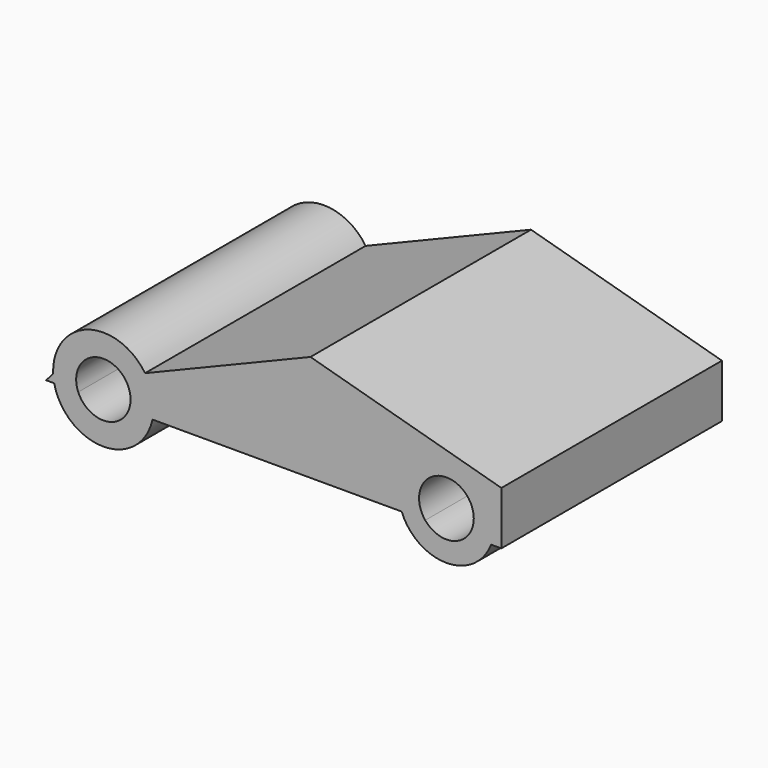
from build123d import *

# Parameters (mm, degrees)
F1_DEPTH = 43.18
F2_DEPTH = 43.18


with BuildPart() as f1:
    # F0 (on Front) → F1 (new body)
    with BuildSketch(Plane.XZ):
        with BuildLine():
            Line((-70.0807423792, -9.385842626), (-72.3080188036, -11.8701132014))
            Line((-72.3080188036, -11.8701132014), (-69.75809754, -11.8701132014))
            ThreePointArc((-69.75809754, -11.8701132014), (-69.9689441055, -10.6344098661), (-70.0807423792, -9.385842626))
        make_face()
        with BuildLine():
            ThreePointArc((-70.0807423792, -9.385842626), (-69.9689441055, -10.6344098661), (-69.75809754, -11.8701132014))
            Line((-69.75809754, -11.8701132014), (-62.2371057887, -11.8701132014))
            ThreePointArc((-62.2371057887, -11.8701132014), (-62.3787839374, -5.7114418757), (-58.3313936433, -1.0673125706))
            Line((-58.3313936433, -1.0673125706), (-62.8844201565, -1.3591732131))
            Line((-62.8844201565, -1.3591732131), (-70.0807423792, -9.385842626))
        make_face()
        with BuildLine():
            Line((-62.2371057887, -11.8701132014), (-69.75809754, -11.8701132014))
            ThreePointArc((-69.75809754, -11.8701132014), (-54.3669313192, -24.3411435131), (-38.9757650985, -11.8701132014))
            Line((-38.9757650985, -11.8701132014), (-46.4967568498, -11.8701132014))
            ThreePointArc((-46.4967568498, -11.8701132014), (-54.3669313192, -17.1275100133), (-62.2371057887, -11.8701132014))
        make_face()
        with BuildLine():
            ThreePointArc((-41.301230943, 0.1563890629), (-59.3183623194, 6.3254916753), (-70.0807423792, -9.385842626))
            Line((-70.0807423792, -9.385842626), (-62.8844201565, -1.3591732131))
            Line((-62.8844201565, -1.3591732131), (-58.3313936433, -1.0673125706))
            ThreePointArc((-58.3313936433, -1.0673125706), (-54.9119288787, -0.1061343687), (-51.3977275424, -0.6228468428))
            Line((-51.3977275424, -0.6228468428), (-41.6813157499, 0))
            Line((-41.6813157499, 0), (-41.301230943, 0.1563890629))
        make_face()
        with BuildLine():
            ThreePointArc((-38.6338850166, -8.6080972105), (-38.7195884656, -10.2480385445), (-38.9757650985, -11.8701132014))
            Line((-38.9757650985, -11.8701132014), (39.0784468264, -11.8701132014))
            ThreePointArc((39.0784468264, -11.8701132014), (50.3328504817, 8.347234678), (68.1355186493, -6.4334203489))
            ThreePointArc((68.1355186493, -6.4334203489), (67.8790244167, -9.198939257), (67.1182919531, -11.8701132014))
            Line((67.1182919531, -11.8701132014), (70.3145563602, -11.8701132014))
            Line((70.3145563602, -11.8701132014), (70.3145563602, 4.8024123535))
            Line((70.3145563602, 4.8024123535), (10.5109401047, 21.4749388397))
            Line((10.5109401047, 21.4749388397), (-41.301230943, 0.1563890629))
            ThreePointArc((-41.301230943, 0.1563890629), (-39.3154859575, -4.0274052888), (-38.6338850166, -8.6080972105))
        make_face()
        with BuildLine():
            Line((-46.4967568498, -11.8701132014), (-38.9757650985, -11.8701132014))
            ThreePointArc((-38.9757650985, -11.8701132014), (-38.7195884656, -10.2480385445), (-38.6338850166, -8.6080972105))
            ThreePointArc((-38.6338850166, -8.6080972105), (-39.3154859575, -4.0274052888), (-41.301230943, 0.1563890629))
            Line((-41.301230943, 0.1563890629), (-41.6813157499, 0))
            Line((-41.6813157499, 0), (-51.3977275424, -0.6228468428))
            ThreePointArc((-51.3977275424, -0.6228468428), (-47.3713517444, -3.7457663994), (-45.8475185164, -8.6080972105))
            ThreePointArc((-45.8475185164, -8.6080972105), (-46.0114044167, -10.2710959131), (-46.4967568498, -11.8701132014))
        make_face()
        with BuildLine():
            ThreePointArc((68.1355186493, -6.4334203489), (50.3328504817, 8.347234678), (39.0784468264, -11.8701132014))
            Line((39.0784468264, -11.8701132014), (46.4719469685, -11.8701132014))
            ThreePointArc((46.4719469685, -11.8701132014), (50.2113224676, 1.6370234646), (61.669664699, -6.4334203489))
            ThreePointArc((61.669664699, -6.4334203489), (61.1688132033, -9.3204672711), (59.7247918111, -11.8701132014))
            Line((59.7247918111, -11.8701132014), (67.1182919531, -11.8701132014))
            ThreePointArc((67.1182919531, -11.8701132014), (67.8790244167, -9.198939257), (68.1355186493, -6.4334203489))
        make_face()
        with BuildLine():
            Line((46.4719469685, -11.8701132014), (39.0784468264, -11.8701132014))
            ThreePointArc((39.0784468264, -11.8701132014), (53.0983693898, -21.4705696085), (67.1182919531, -11.8701132014))
            Line((67.1182919531, -11.8701132014), (59.7247918111, -11.8701132014))
            ThreePointArc((59.7247918111, -11.8701132014), (53.0983693898, -15.0047156582), (46.4719469685, -11.8701132014))
        make_face()
    extrude(amount=-F1_DEPTH)

    # F2 (add): a face of the model
    f2_faces = [f1.faces().sort_by_distance(p)[0] for p in [
        (3.5191832368, 0, -1.3282165555),
    ]]
    extrude(f2_faces, amount=F2_DEPTH)


solid = f1.part
